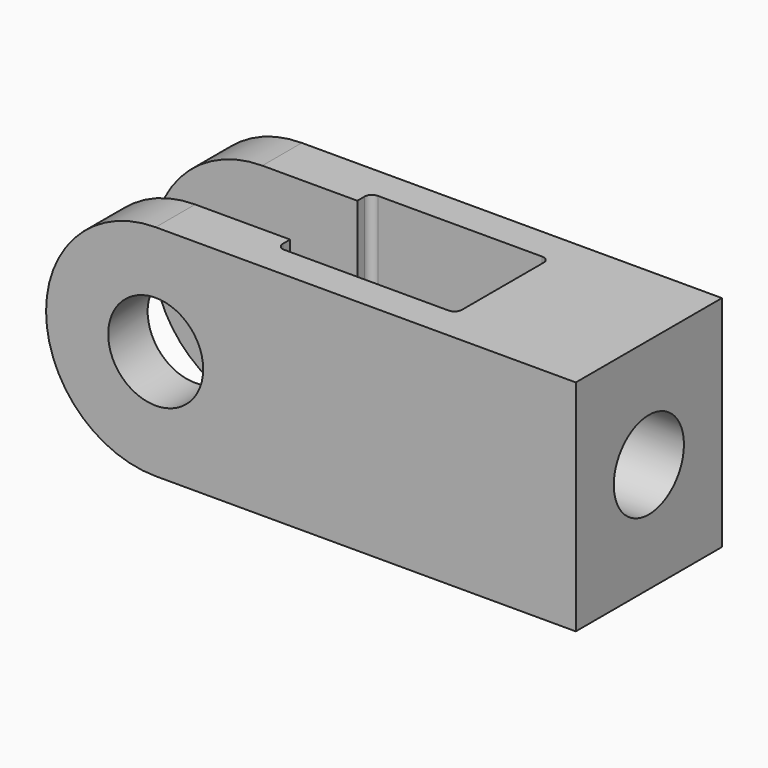
from build123d import *

# Parameters (mm, degrees)
SKETCH007_R      = 13
EXTRUDE_DEPTH    = 65
SKETCH017_R      = 12
EXTRUDE008_DEPTH = 40
EXTRUDE007_DEPTH = 75
PAD_DEPTH        = 25


with BuildPart() as extrude_body:
    # Sketch007 (on Face6 of Pad) → Extrude (new body)
    with BuildSketch(Plane.XZ.offset(25)):
        Circle(SKETCH007_R)
    extrude(amount=-EXTRUDE_DEPTH)


with BuildPart() as extrude008:
    # Sketch017 → Extrude008 (new body)
    with BuildSketch(Plane.YZ.offset(90)):
        Circle(SKETCH017_R)
    extrude(amount=EXTRUDE008_DEPTH)


with BuildPart() as extrude007:
    # Sketch016 → Extrude007 (new body, symmetric)
    with BuildSketch(Plane.XY):
        with BuildLine():
            Line((-30, 11.5), (26, 11.5))
            Line((26, 11.5), (26, 14))
            ThreePointArc((28, 16), (26.585786, 15.414214), (26, 14))
            Line((28, 16), (73, 16))
            ThreePointArc((75, 14), (74.414214, 15.414214), (73, 16))
            Line((75, 14), (75, -14))
            ThreePointArc((73, -16), (74.414214, -15.414214), (75, -14))
            Line((73, -16), (28, -16))
            ThreePointArc((26, -14), (26.585786, -15.414214), (28, -16))
            Line((26, -14), (26, -11.5))
            Line((26, -11.5), (-30, -11.5))
            Line((-30, -11.5), (-30, 11.5))
        make_face()
    extrude(amount=EXTRUDE007_DEPTH, both=True)


with BuildPart() as obj1:
    # Sketch → Pad (new body, symmetric)
    with BuildSketch(Plane.XZ):
        with BuildLine():
            Line((115, 30), (0, 30))
            ThreePointArc((0, 30), (-30, 0), (0, -30))
            Line((0, -30), (115, -30))
            Line((115, -30), (115, 30))
        make_face()
    extrude(amount=PAD_DEPTH, both=True)

    # Cut: cut Extrude007
    add(extrude007.part, mode=Mode.SUBTRACT)

    # Cut007: cut Extrude008
    add(extrude008.part, mode=Mode.SUBTRACT)

    # Cut008: cut Extrude body
    add(extrude_body.part, mode=Mode.SUBTRACT)


with BuildPart() as obj1_1:
    # Cut008 placement: moved
    add(obj1.part.moved(Location((-1200, 0, 0))))


solid = obj1_1.part
